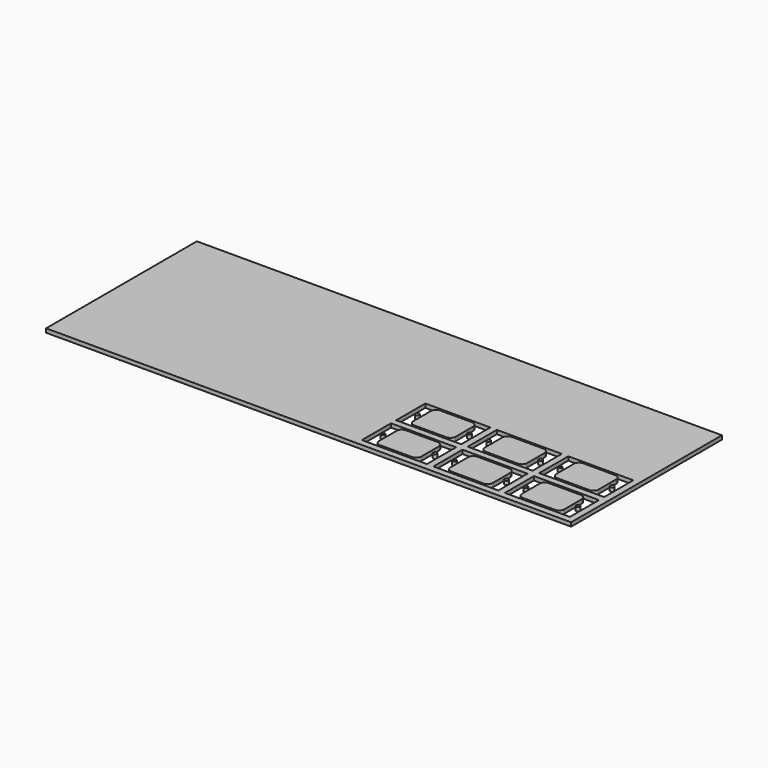
from build123d import *

# Parameters (mm, degrees)
F0_W     = 404
F0_H     = 145
F2_DEPTH = 3
F1_W     = 50
F1_H     = 28
F1_R     = 1.5
F3_DEPTH = 3


with BuildPart() as f2:
    # F0 (on Top) → F2 (new body)
    with BuildSketch(Plane.XY):
        Rectangle(F0_W, F0_H)
    extrude(amount=-F2_DEPTH)

    # F1 (on Top) → F3 (cut, through all)
    with BuildSketch(Plane.XY):
        with Locations((172, -53.5)):
            Rectangle(F1_W, F1_H)
        with Locations((152, -53.5)):
            Circle(F1_R, mode=Mode.SUBTRACT)
        with BuildLine():
            ThreePointArc((188.25, -61.9), (187.078427, -64.728427), (184.25, -65.9))
            Line((184.25, -65.9), (159.75, -65.9))
            ThreePointArc((159.75, -65.9), (156.921573, -64.728427), (155.75, -61.9))
            Line((155.75, -61.9), (155.75, -45.1))
            ThreePointArc((155.75, -45.1), (156.921573, -42.271573), (159.75, -41.1))
            Line((159.75, -41.1), (184.25, -41.1))
            ThreePointArc((184.25, -41.1), (187.078427, -42.271573), (188.25, -45.1))
            Line((188.25, -45.1), (188.25, -61.9))
        make_face(mode=Mode.SUBTRACT)
        with Locations((192, -53.5)):
            Circle(F1_R, mode=Mode.SUBTRACT)
        with Locations((117, -53.5)):
            Rectangle(F1_W, F1_H)
        with Locations((97, -53.5)):
            Circle(F1_R, mode=Mode.SUBTRACT)
        with BuildLine():
            ThreePointArc((133.25, -61.9), (132.078427, -64.728427), (129.25, -65.9))
            Line((129.25, -65.9), (104.75, -65.9))
            ThreePointArc((104.75, -65.9), (101.921573, -64.728427), (100.75, -61.9))
            Line((100.75, -61.9), (100.75, -45.1))
            ThreePointArc((100.75, -45.1), (101.921573, -42.271573), (104.75, -41.1))
            Line((104.75, -41.1), (129.25, -41.1))
            ThreePointArc((129.25, -41.1), (132.078427, -42.271573), (133.25, -45.1))
            Line((133.25, -45.1), (133.25, -61.9))
        make_face(mode=Mode.SUBTRACT)
        with Locations((137, -53.5)):
            Circle(F1_R, mode=Mode.SUBTRACT)
        with Locations((172, -20.5)):
            Rectangle(F1_W, F1_H)
        with Locations((152, -20.5)):
            Circle(F1_R, mode=Mode.SUBTRACT)
        with BuildLine():
            ThreePointArc((188.25, -28.9), (187.078427, -31.728427), (184.25, -32.9))
            Line((184.25, -32.9), (159.75, -32.9))
            ThreePointArc((159.75, -32.9), (156.921573, -31.728427), (155.75, -28.9))
            Line((155.75, -28.9), (155.75, -12.1))
            ThreePointArc((155.75, -12.1), (156.921573, -9.271573), (159.75, -8.1))
            Line((159.75, -8.1), (184.25, -8.1))
            ThreePointArc((184.25, -8.1), (187.078427, -9.271573), (188.25, -12.1))
            Line((188.25, -12.1), (188.25, -28.9))
        make_face(mode=Mode.SUBTRACT)
        with Locations((192, -20.5)):
            Circle(F1_R, mode=Mode.SUBTRACT)
        with Locations((117, -20.5)):
            Rectangle(F1_W, F1_H)
        with Locations((97, -20.5)):
            Circle(F1_R, mode=Mode.SUBTRACT)
        with BuildLine():
            ThreePointArc((133.25, -28.9), (132.078427, -31.728427), (129.25, -32.9))
            Line((129.25, -32.9), (104.75, -32.9))
            ThreePointArc((104.75, -32.9), (101.921573, -31.728427), (100.75, -28.9))
            Line((100.75, -28.9), (100.75, -12.1))
            ThreePointArc((100.75, -12.1), (101.921573, -9.271573), (104.75, -8.1))
            Line((104.75, -8.1), (129.25, -8.1))
            ThreePointArc((129.25, -8.1), (132.078427, -9.271573), (133.25, -12.1))
            Line((133.25, -12.1), (133.25, -28.9))
        make_face(mode=Mode.SUBTRACT)
        with Locations((137, -20.5)):
            Circle(F1_R, mode=Mode.SUBTRACT)
        with Locations((62, -53.5)):
            Rectangle(F1_W, F1_H)
        with Locations((42, -53.5)):
            Circle(F1_R, mode=Mode.SUBTRACT)
        with BuildLine():
            ThreePointArc((78.25, -61.9), (77.078427, -64.728427), (74.25, -65.9))
            Line((74.25, -65.9), (49.75, -65.9))
            ThreePointArc((49.75, -65.9), (46.921573, -64.728427), (45.75, -61.9))
            Line((45.75, -61.9), (45.75, -45.1))
            ThreePointArc((45.75, -45.1), (46.921573, -42.271573), (49.75, -41.1))
            Line((49.75, -41.1), (74.25, -41.1))
            ThreePointArc((74.25, -41.1), (77.078427, -42.271573), (78.25, -45.1))
            Line((78.25, -45.1), (78.25, -61.9))
        make_face(mode=Mode.SUBTRACT)
        with Locations((82, -53.5)):
            Circle(F1_R, mode=Mode.SUBTRACT)
        with Locations((62, -20.5)):
            Rectangle(F1_W, F1_H)
        with Locations((42, -20.5)):
            Circle(F1_R, mode=Mode.SUBTRACT)
        with BuildLine():
            ThreePointArc((78.25, -28.9), (77.078427, -31.728427), (74.25, -32.9))
            Line((74.25, -32.9), (49.75, -32.9))
            ThreePointArc((49.75, -32.9), (46.921573, -31.728427), (45.75, -28.9))
            Line((45.75, -28.9), (45.75, -12.1))
            ThreePointArc((45.75, -12.1), (46.921573, -9.271573), (49.75, -8.1))
            Line((49.75, -8.1), (74.25, -8.1))
            ThreePointArc((74.25, -8.1), (77.078427, -9.271573), (78.25, -12.1))
            Line((78.25, -12.1), (78.25, -28.9))
        make_face(mode=Mode.SUBTRACT)
        with Locations((82, -20.5)):
            Circle(F1_R, mode=Mode.SUBTRACT)
    extrude(amount=-F3_DEPTH, mode=Mode.SUBTRACT)


solid = f2.part
